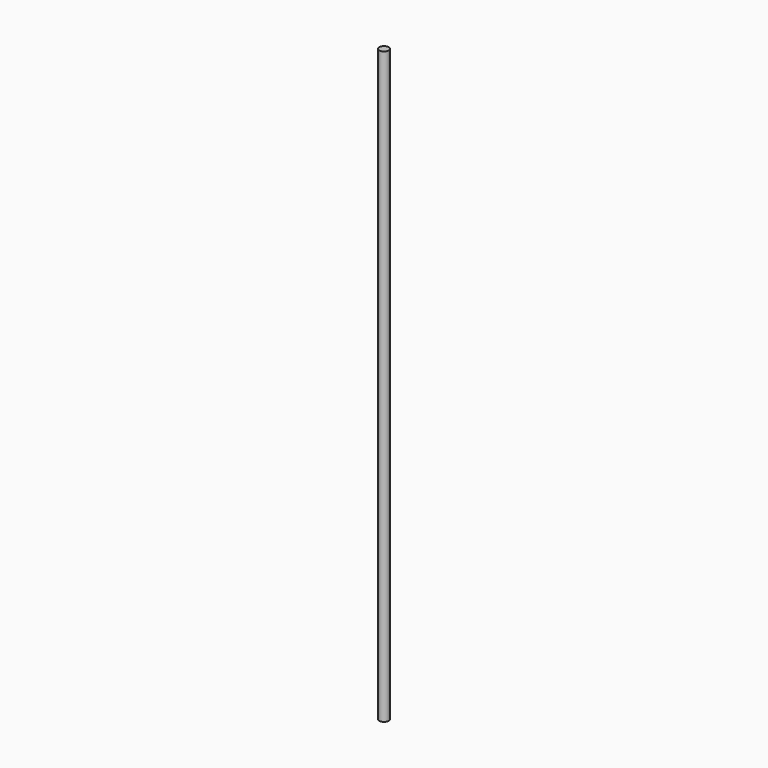
from build123d import *

# Parameters (mm, degrees)
CYLINDER_R     = 4
CYLINDER_DEPTH = 510


with BuildPart() as part:
    # Cylinder → Cylinder (new body)
    with BuildSketch(Plane.XY):
        Circle(CYLINDER_R)
    extrude(amount=CYLINDER_DEPTH)


solid = part.part
